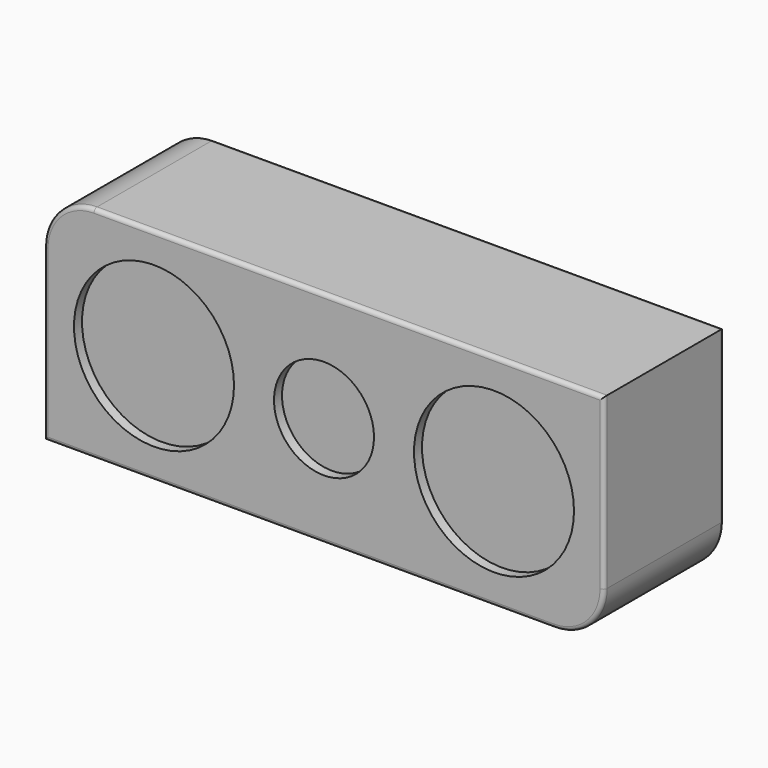
from build123d import *

# Parameters (mm, degrees)
F1_DEPTH = 75
F2_R     = 2
F3_R     = 25
F3_R_2   = 40
F4_DEPTH = 5


with BuildPart() as f1:
    # F0 (on Front) → F1 (new body)
    with BuildSketch(Plane.XZ):
        with BuildLine():
            Line((-140, 30), (-140, -55))
            Line((-140, -55), (115, -55))
            ThreePointArc((115, -55), (132.6776695297, -47.6776695297), (140, -30))
            Line((140, -30), (140, 55))
            Line((140, 55), (-115, 55))
            ThreePointArc((-115, 55), (-132.6776695297, 47.6776695297), (-140, 30))
        make_face()
    extrude(amount=F1_DEPTH)

    # F2
    f2_edges = [f1.edges().sort_by_distance(p)[0] for p in [
        (-132.67767, -75, 47.67767),
        (-140, -75, -12.5),
        (-12.5, -75, -55),
        (132.67767, -75, -47.67767),
        (140, -75, 12.5),
        (12.5, -75, 55),
        (-132.67767, 0, 47.67767),
        (-140, 0, -12.5),
        (-12.5, 0, -55),
        (132.67767, 0, -47.67767),
        (140, 0, 12.5),
        (12.5, 0, 55),
    ]]
    fillet(f2_edges, radius=F2_R)

    # F3 (on face) → F4 (cut)
    with BuildSketch(Plane.XZ.offset(75)):
        Circle(F3_R)
        with Locations((-85, 0)):
            Circle(F3_R_2)
        with Locations((85, 0)):
            Circle(F3_R_2)
    extrude(amount=-F4_DEPTH, mode=Mode.SUBTRACT)


solid = f1.part
